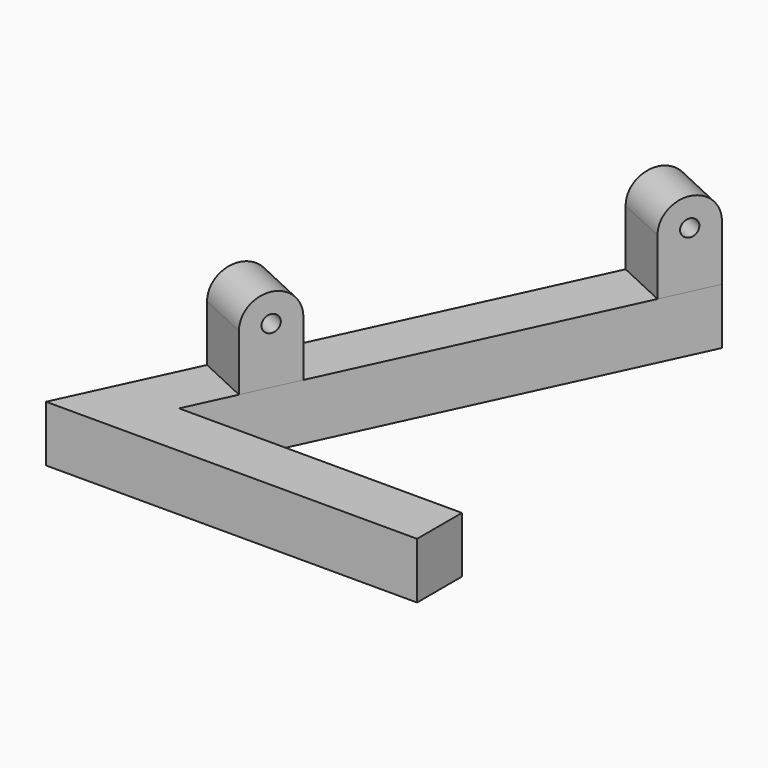
from build123d import *

# Parameters (mm, degrees)
PAD_DEPTH    = 10
SKETCH001_R  = 1.5
PAD001_DEPTH = 10


with BuildPart() as part:
    # Sketch → Pad (new body)
    with BuildSketch(Plane.XY):
        Polygon((66.116543, 0), (0, 0), (42.261826, 90.630779), (51.324904, 86.404596), (15.696856, 10), (66.116543, 10), align=None)
    extrude(amount=PAD_DEPTH)

    # Sketch001 (on Face4 of Pad) → Pad001 (join)
    with BuildSketch(Plane(origin=(9.063078, -4.226183, 0), x_dir=(0.422618, 0.906308, 0), z_dir=(0.906308, -0.422618, 0))):
        with BuildLine():
            Line((100, 10), (90, 10))
            Line((90, 10), (90, 20))
            ThreePointArc((100, 20), (95, 25), (90, 20))
            Line((100, 10), (100, 20))
        make_face()
        with Locations((95, 20)):
            Circle(SKETCH001_R, mode=Mode.SUBTRACT)
        with BuildLine():
            Line((35, 10), (35, 20))
            ThreePointArc((35, 20), (30, 25), (25, 20))
            Line((25, 10), (25, 20))
            Line((35, 10), (25, 10))
        make_face()
        with Locations((30, 20)):
            Circle(SKETCH001_R, mode=Mode.SUBTRACT)
    extrude(amount=-PAD001_DEPTH)


solid = part.part
